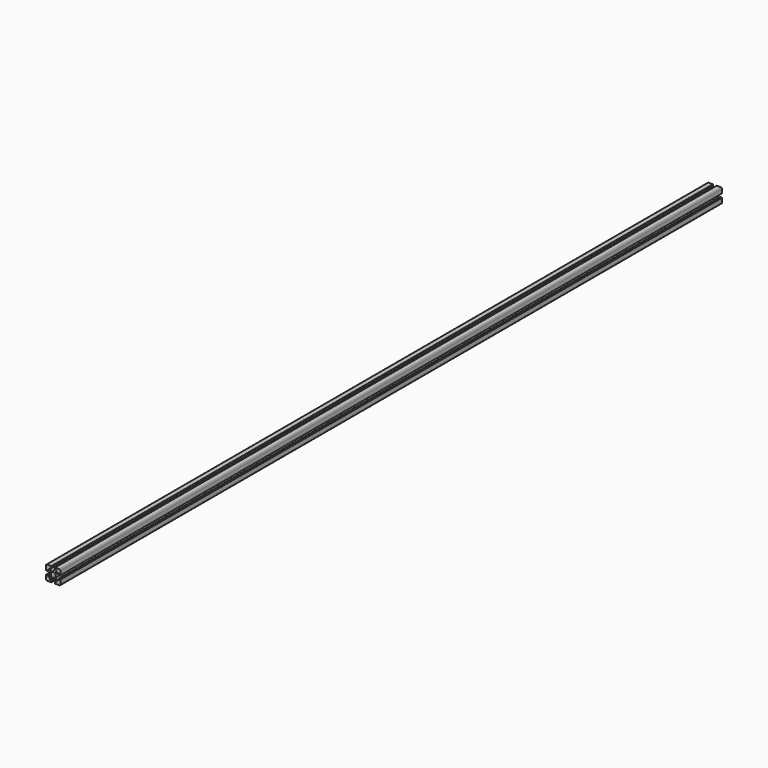
from build123d import *

# Parameters (mm, degrees)
F1_DEPTH = 2600


with BuildPart() as f1:
    # F0 (on Front) → F1 (new body)
    with BuildSketch(Plane.XZ):
        with BuildLine():
            Line((93.5, 122.5), (80.5, 122.5))
            ThreePointArc((80.5, 122.5), (79.35195, 122.271639), (78.37868, 121.62132))
            ThreePointArc((78.37868, 121.62132), (77.728361, 120.64805), (77.5, 119.5))
            Line((77.5, 119.5), (77.5, 106.5))
            ThreePointArc((77.5, 106.5), (77.792893, 105.792893), (78.5, 105.5))
            Line((78.5, 105.5), (79, 105.5))
            Line((79, 105.5), (79, 105))
            Line((79, 105), (83.5, 105))
            Line((83.5, 105), (83.5, 110))
            Line((83.5, 110), (87.5, 110))
            Line((87.5, 110), (92.5, 105))
            Line((92.5, 105), (92.5, 100))
            Line((92.5, 100), (92.5, 95))
            Line((92.5, 95), (87.5, 90))
            Line((87.5, 90), (83.5, 90))
            Line((83.5, 90), (83.5, 95))
            Line((83.5, 95), (79, 95))
            Line((79, 95), (79, 94.5))
            Line((79, 94.5), (78.5, 94.5))
            ThreePointArc((78.5, 94.5), (77.792893, 94.207107), (77.5, 93.5))
            Line((77.5, 93.5), (77.5, 80.5))
            ThreePointArc((77.5, 80.5), (77.728361, 79.35195), (78.37868, 78.37868))
            ThreePointArc((78.37868, 78.37868), (79.35195, 77.728361), (80.5, 77.5))
            Line((80.5, 77.5), (93.5, 77.5))
            ThreePointArc((93.5, 77.5), (94.207107, 77.792893), (94.5, 78.5))
            Line((94.5, 78.5), (94.5, 79))
            Line((94.5, 79), (95, 79))
            Line((95, 79), (95, 83.5))
            Line((95, 83.5), (90, 83.5))
            Line((90, 83.5), (90, 87.5))
            Line((90, 87.5), (95, 92.5))
            Line((95, 92.5), (100, 92.5))
            Line((100, 92.5), (105, 92.5))
            Line((105, 92.5), (110, 87.5))
            Line((110, 87.5), (110, 83.5))
            Line((110, 83.5), (105, 83.5))
            Line((105, 83.5), (105, 79))
            Line((105, 79), (105.5, 79))
            Line((105.5, 79), (105.5, 78.5))
            ThreePointArc((105.5, 78.5), (105.792893, 77.792893), (106.5, 77.5))
            Line((106.5, 77.5), (119.5, 77.5))
            ThreePointArc((119.5, 77.5), (120.64805, 77.728361), (121.62132, 78.37868))
            ThreePointArc((121.62132, 78.37868), (122.271639, 79.35195), (122.5, 80.5))
            Line((122.5, 80.5), (122.5, 93.5))
            ThreePointArc((122.5, 93.5), (122.207107, 94.207107), (121.5, 94.5))
            Line((121.5, 94.5), (121, 94.5))
            Line((121, 94.5), (121, 95))
            Line((121, 95), (116.5, 95))
            Line((116.5, 95), (116.5, 90))
            Line((116.5, 90), (112.5, 90))
            Line((112.5, 90), (107.5, 95))
            Line((107.5, 95), (107.5, 100))
            Line((107.5, 100), (107.5, 105))
            Line((107.5, 105), (112.5, 110))
            Line((112.5, 110), (116.5, 110))
            Line((116.5, 110), (116.5, 105))
            Line((116.5, 105), (121, 105))
            Line((121, 105), (121, 105.5))
            Line((121, 105.5), (121.5, 105.5))
            ThreePointArc((121.5, 105.5), (122.207107, 105.792893), (122.5, 106.5))
            Line((122.5, 106.5), (122.5, 119.5))
            ThreePointArc((122.5, 119.5), (122.271639, 120.64805), (121.62132, 121.62132))
            ThreePointArc((121.62132, 121.62132), (120.64805, 122.271639), (119.5, 122.5))
            Line((119.5, 122.5), (106.5, 122.5))
            ThreePointArc((106.5, 122.5), (105.792893, 122.207107), (105.5, 121.5))
            Line((105.5, 121.5), (105.5, 121))
            Line((105.5, 121), (105, 121))
            Line((105, 121), (105, 116.5))
            Line((105, 116.5), (110, 116.5))
            Line((110, 116.5), (110, 112.5))
            Line((110, 112.5), (105, 107.5))
            Line((105, 107.5), (100, 107.5))
            Line((100, 107.5), (95, 107.5))
            Line((95, 107.5), (90, 112.5))
            Line((90, 112.5), (90, 116.5))
            Line((90, 116.5), (95, 116.5))
            Line((95, 116.5), (95, 121))
            Line((95, 121), (94.5, 121))
            Line((94.5, 121), (94.5, 121.5))
            ThreePointArc((94.5, 121.5), (94.207107, 122.207107), (93.5, 122.5))
        make_face()
    extrude(amount=F1_DEPTH)


solid = f1.part
